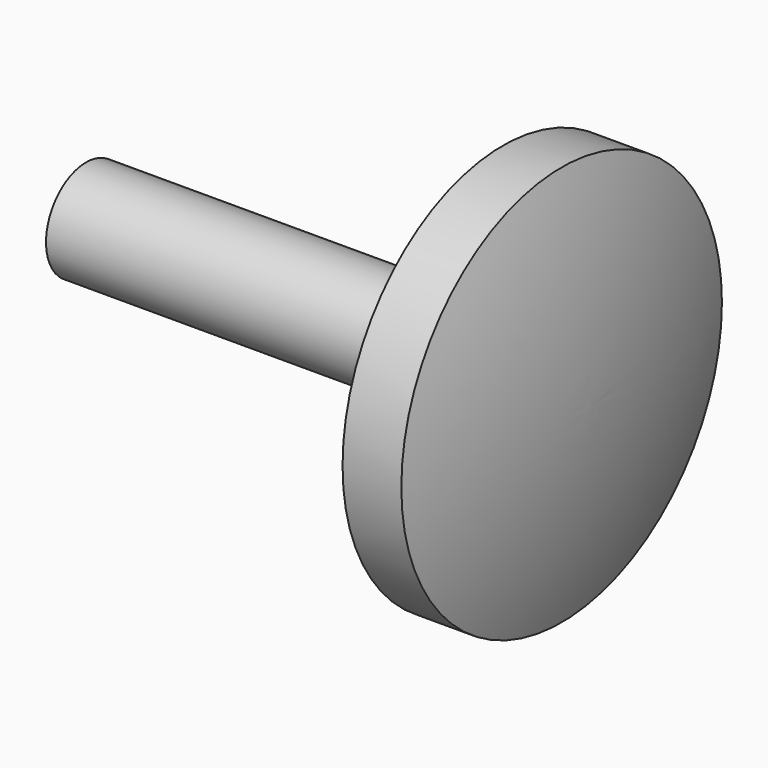
from build123d import *


with BuildPart() as f1:
    # F0 (on Top) → F1 (revolve)
    with BuildSketch(Plane.XY):
        with BuildLine():
            Line((33.4, 2.65), (33.4, 0))
            Line((33.4, 0), (37.8, 0))
            ThreePointArc((37.8, 0), (37.247074, 7.580237), (35.6, 15))
            Line((35.6, 15), (33.4, 15))
            Line((33.4, 15), (31.2, 15))
            Line((31.2, 15), (31.2, 12.8))
            Line((31.2, 12.8), (33.4, 12.8))
            Line((33.4, 12.8), (33.4, 3.75))
            Line((33.4, 3.75), (0, 3.75))
            Line((0, 3.75), (1.905256, 2.65))
            Line((1.905256, 2.65), (33.4, 2.65))
        make_face()
    revolve(axis=Axis((16.7, 0, 0), (1, 0, 0)))


solid = f1.part
